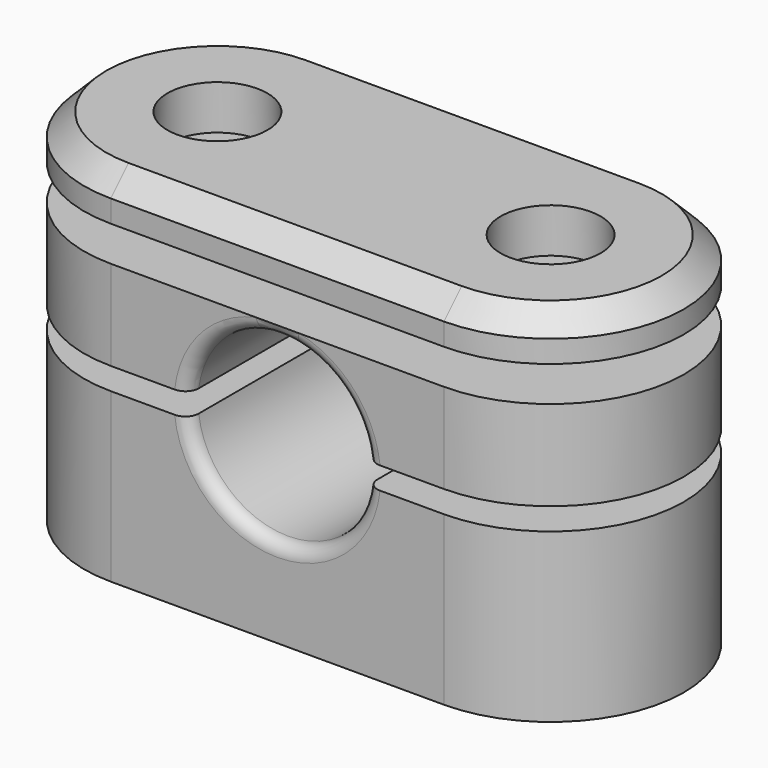
from build123d import *

# Parameters (mm, degrees)
PAD_DEPTH            = 2
SKETCH001_R          = 2.25
HOLE_DEPTH           = 25
CHAMFER_SIZE         = 1
PAD001_DEPTH         = 4.05
SKETCH003_R          = 4.05
POCKET_DEPTH         = 6.001
POCKET_DEPTH_BACK    = -6.001
SKETCH004_R          = 2.25
HOLE001_DEPTH        = 25
FILLET001_R          = 0.6
PAD002_DEPTH         = 7.55
SKETCH006_R          = 4.05
POCKET001_DEPTH      = 6.001
POCKET001_DEPTH_BACK = -6.001
SKETCH007_R          = 2.25
HOLE002_DEPTH        = 25
POCKET002_DEPTH      = 3
FILLET_R             = 0.6


with BuildPart() as top:
    # Sketch → Pad (new body)
    with BuildSketch(Plane.XY):
        with BuildLine():
            ThreePointArc((-7.5, 6), (-13.5, 0), (-7.5, -6))
            Line((-7.5, -6), (7.5, -6))
            ThreePointArc((7.5, -6), (13.5, 0), (7.5, 6))
            Line((7.5, 6), (-7.5, 6))
        make_face()
    extrude(amount=PAD_DEPTH)

    # Sketch001 (on Face6 of Pad) → Hole (cut)
    with BuildSketch(Plane.XY.offset(2)):
        with Locations((7.5, 0)):
            Circle(SKETCH001_R)
        with Locations((-7.5, 0)):
            Circle(SKETCH001_R)
    extrude(amount=-HOLE_DEPTH, mode=Mode.SUBTRACT)

    # Chamfer
    chamfer_edges = [top.edges().sort_by_distance(p)[0] for p in [
        (0, -6, 2),
    ]]
    chamfer(chamfer_edges, length=CHAMFER_SIZE)


with BuildPart() as top_1:
    # Body placement: moved
    add(top.part.moved(Location((0, 0, 6.1375))))


with BuildPart() as middle:
    # Sketch002 → Pad001 (new body)
    with BuildSketch(Plane.XY):
        with BuildLine():
            ThreePointArc((-7.5, 6), (-13.5, 0), (-7.5, -6))
            Line((-7.5, -6), (7.5, -6))
            ThreePointArc((7.5, -6), (13.5, 0), (7.5, 6))
            Line((7.5, 6), (-7.5, 6))
        make_face()
    extrude(amount=PAD001_DEPTH)

    # Sketch003 → Pocket (cut, two sides)
    with BuildSketch(Plane.XZ) as pocket_sk:
        with Locations((0, -0.5)):
            Circle(SKETCH003_R)
    extrude(amount=-POCKET_DEPTH, mode=Mode.SUBTRACT)
    extrude(pocket_sk.sketch, amount=-POCKET_DEPTH_BACK, mode=Mode.SUBTRACT)

    # Sketch004 (on Face5 of Pocket) → Hole001 (cut)
    with BuildSketch(Plane.XY.offset(4.05)):
        with Locations((-7.5, 0)):
            Circle(SKETCH004_R)
        with Locations((7.5, 0)):
            Circle(SKETCH004_R)
    extrude(amount=-HOLE001_DEPTH, mode=Mode.SUBTRACT)

    # Fillet001
    fillet001_edges = [middle.edges().sort_by_distance(p)[0] for p in [
        (0, 6, 3.55),
        (0, -6, 3.55),
    ]]
    fillet(fillet001_edges, radius=FILLET001_R)


with BuildPart() as middle_1:
    # Body001 placement: moved
    add(middle.part.moved(Location((0, 0, 0.5))))


with BuildPart() as lower:
    # Sketch005 → Pad002 (new body)
    with BuildSketch(Plane.XY):
        with BuildLine():
            ThreePointArc((-7.5, 6), (-13.5, 0), (-7.5, -6))
            Line((-7.5, -6), (7.5, -6))
            ThreePointArc((7.5, -6), (13.5, 0), (7.5, 6))
            Line((7.5, 6), (-7.5, 6))
        make_face()
    extrude(amount=-PAD002_DEPTH)

    # Sketch006 → Pocket001 (cut, two sides)
    with BuildSketch(Plane.XZ) as pocket001_sk:
        with Locations((0, 0.5)):
            Circle(SKETCH006_R)
    extrude(amount=-POCKET001_DEPTH, mode=Mode.SUBTRACT)
    extrude(pocket001_sk.sketch, amount=-POCKET001_DEPTH_BACK, mode=Mode.SUBTRACT)

    # Sketch007 (on Face5 of Pocket001) → Hole002 (cut)
    with BuildSketch(Plane(origin=(0, 0, -7.55), x_dir=(1, 0, 0), z_dir=(0, 0, -1))):
        with Locations((-7.5, 0)):
            Circle(SKETCH007_R)
        with Locations((7.5, 0)):
            Circle(SKETCH007_R)
    extrude(amount=-HOLE002_DEPTH, mode=Mode.SUBTRACT)

    # Sketch008 (on Face5 of Hole002) → Pocket002 (cut)
    with BuildSketch(Plane(origin=(0, 0, -7.55), x_dir=(1, 0, 0), z_dir=(0, 0, -1))):
        Polygon((-5.435973, -3.575), (-3.371946, 0), (-5.435973, 3.575), (-9.564027, 3.575), (-11.628054, 0), (-9.564027, -3.575), align=None)
        Polygon((9.564027, -3.575), (11.628054, 0), (9.564027, 3.575), (5.435973, 3.575), (3.371946, 0), (5.435973, -3.575), align=None)
    extrude(amount=-POCKET002_DEPTH, mode=Mode.SUBTRACT)

    # Fillet
    fillet_edges = [lower.edges().sort_by_distance(p)[0] for p in [
        (0, 6, -3.55),
        (0, -6, -3.55),
    ]]
    fillet(fillet_edges, radius=FILLET_R)


with BuildPart() as lower_1:
    # Body002 placement: moved
    add(lower.part.moved(Location((0, 0, -0.5))))


solid = Compound([top_1.part, middle_1.part, lower_1.part])
